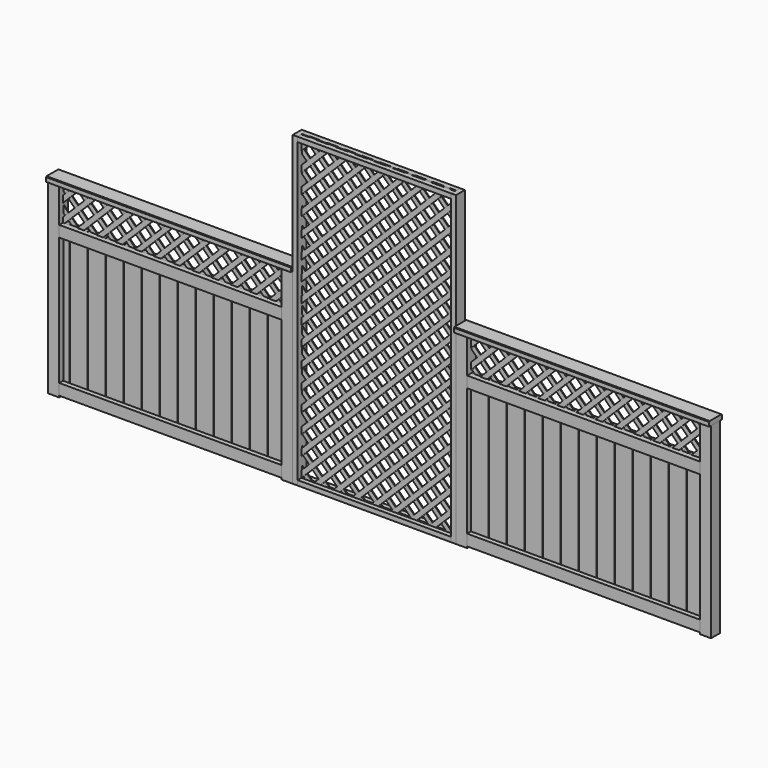
from build123d import *

# Parameters (mm, degrees)
F0_W       = 88.9
F0_H       = 88.9
F1_DEPTH   = 1485.9
F2_W       = 38.1
F2_H       = 88.9
F3_DEPTH   = 1765.3
F5_W       = 38.1
F5_H       = 88.9
F6_DEPTH   = 1847.85
F7_W       = 38.1
F7_H       = 2438.4
F8_DEPTH   = 88.9
F9_W       = 38.1
F9_H       = 2438.4
F10_DEPTH  = 88.9
F11_W      = 38.1
F11_H      = 38.1
F12_DEPTH  = 1219.2
F15_DEPTH  = 6.35
F17_DEPTH  = 6.35
F18_W      = 139.7
F18_H      = 1193.8
F19_DEPTH  = 15.875
F18_W_2    = 47.625
F20_W      = 139.7
F20_H      = 1193.8
F21_DEPTH  = 15.875
F20_W_2    = 130.175
F22_W      = 1847.85
F22_H      = 88.9
F23_DEPTH  = 15.875
F24_W      = 1765.3
F24_H      = 88.9
F25_DEPTH  = 15.875
F26_W      = 127
F26_H      = 38.1
F27_DEPTH  = 2025.65
F28_W      = 127
F28_H      = 38.1
F29_DEPTH  = 1943.1
F30_SIZE   = 5.08
F30_2_SIZE = 5.08


with BuildPart() as f1:
    # F0 (on Top) → F1 (new body)
    with BuildSketch(Plane.XY):
        with Locations((82.55, -44.45)):
            Rectangle(F0_W, F0_H)
    extrude(amount=F1_DEPTH)


with BuildPart() as f1b:
    # F0 (on Top) → F1, piece 2 (new body)
    with BuildSketch(Plane.XY):
        with Locations((1936.75, -44.45)):
            Rectangle(F0_W, F0_H)
    extrude(amount=F1_DEPTH)


with BuildPart() as f1c:
    # F0 (on Top) → F1, piece 3 (new body)
    with BuildSketch(Plane.XY):
        with Locations((3321.05, -44.45)):
            Rectangle(F0_W, F0_H)
    extrude(amount=F1_DEPTH)


with BuildPart() as f1d:
    # F0 (on Top) → F1, piece 4 (new body)
    with BuildSketch(Plane.XY):
        with Locations((5257.8, -44.45)):
            Rectangle(F0_W, F0_H)
    extrude(amount=F1_DEPTH)


with BuildPart() as f3:
    # F2 (on face) → F3 (new body)
    with BuildSketch(Plane.YZ.offset(127)):
        with Locations((-69.85, 1162.05)):
            Rectangle(F2_W, F2_H)
    extrude(amount=F3_DEPTH)


with BuildPart() as f4_1:
    # F4: copy of F3
    add(f3.part.moved(Location((0, 0, -1104.9))))


with BuildPart() as f6:
    # F5 (on face) → F6 (new body)
    with BuildSketch(Plane(origin=(5213.35, 0, 0), x_dir=(0, -1, 0), z_dir=(-1, 0, 0))):
        with Locations((69.85, 1162.05)):
            Rectangle(F5_W, F5_H)
    extrude(amount=F6_DEPTH)


with BuildPart() as f6b:
    # F5 (on face) → F6, piece 2 (new body)
    with BuildSketch(Plane(origin=(5213.35, 0, 0), x_dir=(0, -1, 0), z_dir=(-1, 0, 0))):
        with Locations((69.85, 57.15)):
            Rectangle(F5_W, F5_H)
    extrude(amount=F6_DEPTH)


with BuildPart() as f8:
    # F7 (on face) → F8 (new body)
    with BuildSketch(Plane.XZ.offset(88.9)):
        with Locations((2000.25, 1219.2)):
            Rectangle(F7_W, F7_H)
    extrude(amount=-F8_DEPTH)


with BuildPart() as f10:
    # F9 (on face) → F10 (new body)
    with BuildSketch(Plane.XZ.offset(88.9)):
        with Locations((3257.55, 1219.2)):
            Rectangle(F9_W, F9_H)
    extrude(amount=-F10_DEPTH)


with BuildPart() as f12:
    # F11 (on face) → F12 (new body)
    with BuildSketch(Plane.YZ.offset(2019.3)):
        with Locations((-69.85, 2419.35)):
            Rectangle(F11_W, F11_H)
    extrude(amount=F12_DEPTH)


with BuildPart() as f12b:
    # F11 (on face) → F12, piece 2 (new body)
    with BuildSketch(Plane.YZ.offset(2019.3)):
        with Locations((-19.05, 2419.35)):
            Rectangle(F11_W, F11_H)
    extrude(amount=F12_DEPTH)


with BuildPart() as f12c:
    # F11 (on face) → F12, piece 3 (new body)
    with BuildSketch(Plane.YZ.offset(2019.3)):
        with Locations((-69.85, 19.05)):
            Rectangle(F11_W, F11_H)
    extrude(amount=F12_DEPTH)


with BuildPart() as f12d:
    # F11 (on face) → F12, piece 4 (new body)
    with BuildSketch(Plane.YZ.offset(2019.3)):
        with Locations((-19.05, 19.05)):
            Rectangle(F11_W, F11_H)
    extrude(amount=F12_DEPTH)


with BuildPart() as f15:
    # F14 (on offset) → F15 (new body)
    with BuildSketch(Plane.XZ.offset(44.45)):
        Polygon((3148.0592316368, 0), (3201.9407683632, 0), (3238.5, 36.5592316368), (3238.5, 90.4407683632), align=None)
    extrude(amount=F15_DEPTH)


with BuildPart() as f15b:
    # F14 (on offset) → F15, piece 2 (new body)
    with BuildSketch(Plane.XZ.offset(44.45)):
        Polygon((4535.4407683632, 1485.9), (4481.5592316368, 1485.9), (4202.1592316368, 1206.5), (4256.0407683632, 1206.5), align=None)
    extrude(amount=F15_DEPTH)


with BuildPart() as f15c:
    # F14 (on offset) → F15, piece 3 (new body)
    with BuildSketch(Plane.XZ.offset(44.45)):
        Polygon((2995.6592316368, 0), (3049.5407683632, 0), (3238.5, 188.9592316368), (3238.5, 242.8407683632), align=None)
    extrude(amount=F15_DEPTH)


with BuildPart() as f15d:
    # F14 (on offset) → F15, piece 4 (new body)
    with BuildSketch(Plane.XZ.offset(44.45)):
        Polygon((4383.0407683632, 1485.9), (4329.1592316368, 1485.9), (4049.7592316368, 1206.5), (4103.6407683632, 1206.5), align=None)
    extrude(amount=F15_DEPTH)


with BuildPart() as f15e:
    # F14 (on offset) → F15, piece 5 (new body)
    with BuildSketch(Plane.XZ.offset(44.45)):
        Polygon((2843.2592316368, 0), (2897.1407683632, 0), (3238.5, 341.3592316368), (3238.5, 395.2407683632), align=None)
    extrude(amount=F15_DEPTH)


with BuildPart() as f15f:
    # F14 (on offset) → F15, piece 6 (new body)
    with BuildSketch(Plane.XZ.offset(44.45)):
        Polygon((4230.6407683632, 1485.9), (4176.7592316368, 1485.9), (3897.3592316368, 1206.5), (3951.2407683632, 1206.5), align=None)
    extrude(amount=F15_DEPTH)


with BuildPart() as f15g:
    # F14 (on offset) → F15, piece 7 (new body)
    with BuildSketch(Plane.XZ.offset(44.45)):
        Polygon((2690.8592316368, 0), (2744.7407683632, 0), (3238.5, 493.7592316368), (3238.5, 547.6407683632), align=None)
    extrude(amount=F15_DEPTH)


with BuildPart() as f15h:
    # F14 (on offset) → F15, piece 8 (new body)
    with BuildSketch(Plane.XZ.offset(44.45)):
        Polygon((4078.2407683632, 1485.9), (4024.3592316368, 1485.9), (3744.9592316368, 1206.5), (3798.8407683632, 1206.5), align=None)
    extrude(amount=F15_DEPTH)


with BuildPart() as f15i:
    # F14 (on offset) → F15, piece 9 (new body)
    with BuildSketch(Plane.XZ.offset(44.45)):
        Polygon((2538.4592316368, 0), (2592.3407683632, 0), (3238.5, 646.1592316368), (3238.5, 700.0407683632), align=None)
    extrude(amount=F15_DEPTH)


with BuildPart() as f15j:
    # F14 (on offset) → F15, piece 10 (new body)
    with BuildSketch(Plane.XZ.offset(44.45)):
        Polygon((3925.8407683632, 1485.9), (3871.9592316368, 1485.9), (3592.5592316368, 1206.5), (3646.4407683632, 1206.5), align=None)
    extrude(amount=F15_DEPTH)


with BuildPart() as f15k:
    # F14 (on offset) → F15, piece 11 (new body)
    with BuildSketch(Plane.XZ.offset(44.45)):
        Polygon((2386.0592316368, 0), (2439.9407683632, 0), (3238.5, 798.5592316368), (3238.5, 852.4407683632), align=None)
    extrude(amount=F15_DEPTH)


with BuildPart() as f15l:
    # F14 (on offset) → F15, piece 12 (new body)
    with BuildSketch(Plane.XZ.offset(44.45)):
        Polygon((3773.4407683632, 1485.9), (3719.5592316368, 1485.9), (3440.1592316368, 1206.5), (3494.0407683632, 1206.5), align=None)
    extrude(amount=F15_DEPTH)


with BuildPart() as f15m:
    # F14 (on offset) → F15, piece 13 (new body)
    with BuildSketch(Plane.XZ.offset(44.45)):
        Polygon((2233.6592316368, 0), (2287.5407683632, 0), (3238.5, 950.9592316368), (3238.5, 1004.8407683632), align=None)
    extrude(amount=F15_DEPTH)


with BuildPart() as f15n:
    # F14 (on offset) → F15, piece 14 (new body)
    with BuildSketch(Plane.XZ.offset(44.45)):
        Polygon((3621.0407683632, 1485.9), (3567.1592316368, 1485.9), (3365.5, 1284.2407683632), (3365.5, 1230.3592316368), align=None)
    extrude(amount=F15_DEPTH)


with BuildPart() as f15o:
    # F14 (on offset) → F15, piece 15 (new body)
    with BuildSketch(Plane.XZ.offset(44.45)):
        Polygon((2081.2592316368, 0), (2135.1407683632, 0), (3238.5, 1103.3592316368), (3238.5, 1157.2407683632), align=None)
    extrude(amount=F15_DEPTH)


with BuildPart() as f15p:
    # F14 (on offset) → F15, piece 16 (new body)
    with BuildSketch(Plane.XZ.offset(44.45)):
        Polygon((3468.6407683632, 1485.9), (3414.7592316368, 1485.9), (3365.5, 1436.6407683632), (3365.5, 1382.7592316368), align=None)
    extrude(amount=F15_DEPTH)


with BuildPart() as f15q:
    # F14 (on offset) → F15, piece 17 (new body)
    with BuildSketch(Plane.XZ.offset(44.45)):
        Polygon((2019.3, 90.4407683632), (2019.3, 36.5592316368), (3238.5, 1255.7592316368), (3238.5, 1309.6407683632), align=None)
    extrude(amount=F15_DEPTH)


with BuildPart() as f15r:
    # F14 (on offset) → F15, piece 18 (new body)
    with BuildSketch(Plane.XZ.offset(44.45)):
        Polygon((3238.5, 1408.1592316368), (3238.5, 1462.0407683632), (2019.3, 242.8407683632), (2019.3, 188.9592316368), align=None)
    extrude(amount=F15_DEPTH)


with BuildPart() as f15s:
    # F14 (on offset) → F15, piece 19 (new body)
    with BuildSketch(Plane.XZ.offset(44.45)):
        Polygon((3238.5, 1560.5592316368), (3238.5, 1614.4407683632), (2019.3, 395.2407683633), (2019.3, 341.3592316368), align=None)
    extrude(amount=F15_DEPTH)


with BuildPart() as f15t:
    # F14 (on offset) → F15, piece 20 (new body)
    with BuildSketch(Plane.XZ.offset(44.45)):
        Polygon((3238.5, 1712.9592316368), (3238.5, 1766.8407683632), (2019.3, 547.6407683633), (2019.3, 493.7592316368), align=None)
    extrude(amount=F15_DEPTH)


with BuildPart() as f15u:
    # F14 (on offset) → F15, piece 21 (new body)
    with BuildSketch(Plane.XZ.offset(44.45)):
        Polygon((3238.5, 1865.3592316368), (3238.5, 1919.2407683632), (2019.3, 700.0407683633), (2019.3, 646.1592316368), align=None)
    extrude(amount=F15_DEPTH)


with BuildPart() as f15v:
    # F14 (on offset) → F15, piece 22 (new body)
    with BuildSketch(Plane.XZ.offset(44.45)):
        Polygon((3238.5, 2017.7592316368), (3238.5, 2071.6407683632), (2019.3, 852.4407683632), (2019.3, 798.5592316368), align=None)
    extrude(amount=F15_DEPTH)


with BuildPart() as f15w:
    # F14 (on offset) → F15, piece 23 (new body)
    with BuildSketch(Plane.XZ.offset(44.45)):
        Polygon((3238.5, 2170.1592316368), (3238.5, 2224.0407683632), (2019.3, 1004.8407683632), (2019.3, 950.9592316368), align=None)
    extrude(amount=F15_DEPTH)


with BuildPart() as f15x:
    # F14 (on offset) → F15, piece 24 (new body)
    with BuildSketch(Plane.XZ.offset(44.45)):
        Polygon((3238.5, 2322.5592316368), (3238.5, 2376.4407683632), (2019.3, 1157.2407683632), (2019.3, 1103.3592316368), align=None)
    extrude(amount=F15_DEPTH)


with BuildPart() as f15y:
    # F14 (on offset) → F15, piece 25 (new body)
    with BuildSketch(Plane.XZ.offset(44.45)):
        Polygon((3201.9407683632, 2438.4), (3148.0592316368, 2438.4), (2019.3, 1309.6407683632), (2019.3, 1255.7592316368), align=None)
        Polygon((3201.9407683632, 2438.4), (3148.0592316368, 2438.4), (2019.3, 1309.6407683632), (2019.3, 1255.7592316368), align=None)
    extrude(amount=F15_DEPTH)


with BuildPart() as f15z:
    # F14 (on offset) → F15, piece 26 (new body)
    with BuildSketch(Plane.XZ.offset(44.45)):
        Polygon((3049.5407683632, 2438.4), (2995.6592316368, 2438.4), (2019.3, 1462.0407683632), (2019.3, 1408.1592316368), align=None)
    extrude(amount=F15_DEPTH)


with BuildPart() as f15ba:
    # F14 (on offset) → F15, piece 27 (new body)
    with BuildSketch(Plane.XZ.offset(44.45)):
        Polygon((1763.7592316368, 1206.5), (1817.6407683632, 1206.5), (1892.3, 1281.1592316368), (1892.3, 1335.0407683632), align=None)
    extrude(amount=F15_DEPTH)


with BuildPart() as f15bb:
    # F14 (on offset) → F15, piece 28 (new body)
    with BuildSketch(Plane.XZ.offset(44.45)):
        Polygon((2897.1407683632, 2438.4), (2843.2592316368, 2438.4), (2019.3, 1614.4407683632), (2019.3, 1560.5592316368), align=None)
    extrude(amount=F15_DEPTH)


with BuildPart() as f15bc:
    # F14 (on offset) → F15, piece 29 (new body)
    with BuildSketch(Plane.XZ.offset(44.45)):
        Polygon((1611.3592316368, 1206.5), (1665.2407683632, 1206.5), (1892.3, 1433.5592316368), (1892.3, 1485.9), (1890.7592316368, 1485.9), align=None)
    extrude(amount=F15_DEPTH)


with BuildPart() as f15bd:
    # F14 (on offset) → F15, piece 30 (new body)
    with BuildSketch(Plane.XZ.offset(44.45)):
        Polygon((2744.7407683632, 2438.4), (2690.8592316368, 2438.4), (2019.3, 1766.8407683632), (2019.3, 1712.9592316368), align=None)
    extrude(amount=F15_DEPTH)


with BuildPart() as f15be:
    # F14 (on offset) → F15, piece 31 (new body)
    with BuildSketch(Plane.XZ.offset(44.45)):
        Polygon((1458.9592316368, 1206.5), (1512.8407683632, 1206.5), (1792.2407683632, 1485.9), (1738.3592316368, 1485.9), align=None)
    extrude(amount=F15_DEPTH)


with BuildPart() as f15bf:
    # F14 (on offset) → F15, piece 32 (new body)
    with BuildSketch(Plane.XZ.offset(44.45)):
        Polygon((2592.3407683632, 2438.4), (2538.4592316368, 2438.4), (2019.3, 1919.2407683632), (2019.3, 1865.3592316368), align=None)
    extrude(amount=F15_DEPTH)


with BuildPart() as f15bg:
    # F14 (on offset) → F15, piece 33 (new body)
    with BuildSketch(Plane.XZ.offset(44.45)):
        Polygon((2439.9407683632, 2438.4), (2386.0592316368, 2438.4), (2019.3, 2071.6407683632), (2019.3, 2017.7592316368), align=None)
    extrude(amount=F15_DEPTH)


with BuildPart() as f15bh:
    # F14 (on offset) → F15, piece 34 (new body)
    with BuildSketch(Plane.XZ.offset(44.45)):
        Polygon((2287.5407683632, 2438.4), (2233.6592316368, 2438.4), (2019.3, 2224.0407683632), (2019.3, 2170.1592316368), align=None)
    extrude(amount=F15_DEPTH)


with BuildPart() as f15bi:
    # F14 (on offset) → F15, piece 35 (new body)
    with BuildSketch(Plane.XZ.offset(44.45)):
        Polygon((2135.1407683632, 2438.4), (2081.2592316368, 2438.4), (2019.3, 2376.4407683632), (2019.3, 2322.5592316368), align=None)
    extrude(amount=F15_DEPTH)


with BuildPart() as f15bj:
    # F14 (on offset) → F15, piece 36 (new body)
    with BuildSketch(Plane.XZ.offset(44.45)):
        Polygon((1306.5592316368, 1206.5), (1360.4407683632, 1206.5), (1639.8407683632, 1485.9), (1585.9592316368, 1485.9), align=None)
    extrude(amount=F15_DEPTH)


with BuildPart() as f15bk:
    # F14 (on offset) → F15, piece 37 (new body)
    with BuildSketch(Plane.XZ.offset(44.45)):
        Polygon((1154.1592316368, 1206.5), (1208.0407683632, 1206.5), (1487.4407683632, 1485.9), (1433.5592316368, 1485.9), align=None)
    extrude(amount=F15_DEPTH)


with BuildPart() as f15bl:
    # F14 (on offset) → F15, piece 38 (new body)
    with BuildSketch(Plane.XZ.offset(44.45)):
        Polygon((1001.7592316368, 1206.5), (1055.6407683632, 1206.5), (1335.0407683632, 1485.9), (1281.1592316368, 1485.9), align=None)
    extrude(amount=F15_DEPTH)


with BuildPart() as f15bm:
    # F14 (on offset) → F15, piece 39 (new body)
    with BuildSketch(Plane.XZ.offset(44.45)):
        Polygon((849.3592316368, 1206.5), (903.2407683632, 1206.5), (1182.6407683632, 1485.9), (1128.7592316368, 1485.9), align=None)
    extrude(amount=F15_DEPTH)


with BuildPart() as f15bn:
    # F14 (on offset) → F15, piece 40 (new body)
    with BuildSketch(Plane.XZ.offset(44.45)):
        Polygon((696.9592316368, 1206.5), (750.8407683632, 1206.5), (1030.2407683632, 1485.9), (976.3592316368, 1485.9), align=None)
    extrude(amount=F15_DEPTH)


with BuildPart() as f15bo:
    # F14 (on offset) → F15, piece 41 (new body)
    with BuildSketch(Plane.XZ.offset(44.45)):
        Polygon((544.5592316368, 1206.5), (598.4407683632, 1206.5), (877.8407683632, 1485.9), (823.9592316368, 1485.9), align=None)
    extrude(amount=F15_DEPTH)


with BuildPart() as f15bp:
    # F14 (on offset) → F15, piece 42 (new body)
    with BuildSketch(Plane.XZ.offset(44.45)):
        Polygon((392.1592316368, 1206.5), (446.0407683632, 1206.5), (725.4407683632, 1485.9), (671.5592316368, 1485.9), align=None)
    extrude(amount=F15_DEPTH)


with BuildPart() as f15bq:
    # F14 (on offset) → F15, piece 43 (new body)
    with BuildSketch(Plane.XZ.offset(44.45)):
        Polygon((239.7592316368, 1206.5), (293.6407683632, 1206.5), (573.0407683632, 1485.9), (519.1592316368, 1485.9), align=None)
    extrude(amount=F15_DEPTH)


with BuildPart() as f15br:
    # F14 (on offset) → F15, piece 44 (new body)
    with BuildSketch(Plane.XZ.offset(44.45)):
        Polygon((127, 1206.5), (141.2407683632, 1206.5), (420.6407683632, 1485.9), (366.7592316368, 1485.9), (127, 1246.1407683632), align=None)
    extrude(amount=F15_DEPTH)


with BuildPart() as f15bs:
    # F14 (on offset) → F15, piece 45 (new body)
    with BuildSketch(Plane.XZ.offset(44.45)):
        Polygon((127, 1398.5407683632), (127, 1344.6592316368), (268.2407683632, 1485.9), (214.3592316368, 1485.9), align=None)
    extrude(amount=F15_DEPTH)


with BuildPart() as f15bt:
    # F14 (on offset) → F15, piece 46 (new body)
    with BuildSketch(Plane.XZ.offset(44.45)):
        Polygon((4687.8407683632, 1485.9), (4633.9592316368, 1485.9), (4354.5592316368, 1206.5), (4408.4407683632, 1206.5), align=None)
    extrude(amount=F15_DEPTH)


with BuildPart() as f15bu:
    # F14 (on offset) → F15, piece 47 (new body)
    with BuildSketch(Plane.XZ.offset(44.45)):
        Polygon((4840.2407683632, 1485.9), (4786.3592316368, 1485.9), (4506.9592316368, 1206.5), (4560.8407683632, 1206.5), align=None)
    extrude(amount=F15_DEPTH)


with BuildPart() as f15bv:
    # F14 (on offset) → F15, piece 48 (new body)
    with BuildSketch(Plane.XZ.offset(44.45)):
        Polygon((4992.6407683632, 1485.9), (4938.7592316368, 1485.9), (4659.3592316368, 1206.5), (4713.2407683632, 1206.5), align=None)
    extrude(amount=F15_DEPTH)


with BuildPart() as f15bw:
    # F14 (on offset) → F15, piece 49 (new body)
    with BuildSketch(Plane.XZ.offset(44.45)):
        Polygon((5145.0407683632, 1485.9), (5091.1592316368, 1485.9), (4811.7592316368, 1206.5), (4865.6407683632, 1206.5), align=None)
    extrude(amount=F15_DEPTH)


with BuildPart() as f15bx:
    # F14 (on offset) → F15, piece 50 (new body)
    with BuildSketch(Plane.XZ.offset(44.45)):
        Polygon((5213.35, 1401.8092316368), (5213.35, 1455.6907683632), (4964.1592316368, 1206.5), (5018.0407683632, 1206.5), align=None)
    extrude(amount=F15_DEPTH)


with BuildPart() as f15by:
    # F14 (on offset) → F15, piece 51 (new body)
    with BuildSketch(Plane.XZ.offset(44.45)):
        Polygon((5213.35, 1249.4092316368), (5213.35, 1303.2907683632), (5116.5592316368, 1206.5), (5170.4407683632, 1206.5), align=None)
    extrude(amount=F15_DEPTH)


with BuildPart() as f17:
    # F16 (on offset) → F17 (new body)
    with BuildSketch(Plane.XZ.offset(44.45)):
        Polygon((2019.3, 117.3815367264), (2019.3, 63.5), (2082.8, 0), (2136.6815367264, 0), align=None)
    extrude(amount=-F17_DEPTH)


with BuildPart() as f17b:
    # F16 (on offset) → F17, piece 2 (new body)
    with BuildSketch(Plane.XZ.offset(44.45)):
        Polygon((2276.3815367264, 0), (2019.3, 257.0815367264), (2019.3, 203.2), (2222.5, 0), align=None)
    extrude(amount=-F17_DEPTH)


with BuildPart() as f17c:
    # F16 (on offset) → F17, piece 3 (new body)
    with BuildSketch(Plane.XZ.offset(44.45)):
        Polygon((2416.0815367264, 0), (2019.3, 396.7815367264), (2019.3, 342.9), (2362.2, 0), align=None)
    extrude(amount=-F17_DEPTH)


with BuildPart() as f17d:
    # F16 (on offset) → F17, piece 4 (new body)
    with BuildSketch(Plane.XZ.offset(44.45)):
        Polygon((2555.7815367264, 0), (2019.3, 536.4815367264), (2019.3, 482.6), (2501.9, 0), align=None)
    extrude(amount=-F17_DEPTH)


with BuildPart() as f17e:
    # F16 (on offset) → F17, piece 5 (new body)
    with BuildSketch(Plane.XZ.offset(44.45)):
        Polygon((2695.4815367264, 0), (2019.3, 676.1815367264), (2019.3, 622.3), (2641.6, 0), align=None)
    extrude(amount=-F17_DEPTH)


with BuildPart() as f17f:
    # F16 (on offset) → F17, piece 6 (new body)
    with BuildSketch(Plane.XZ.offset(44.45)):
        Polygon((2835.1815367264, 0), (2019.3, 815.8815367264), (2019.3, 762), (2781.3, 0), align=None)
    extrude(amount=-F17_DEPTH)


with BuildPart() as f17g:
    # F16 (on offset) → F17, piece 7 (new body)
    with BuildSketch(Plane.XZ.offset(44.45)):
        Polygon((2974.8815367264, 0), (2019.3, 955.5815367264), (2019.3, 901.7), (2921, 0), align=None)
    extrude(amount=-F17_DEPTH)


with BuildPart() as f17h:
    # F16 (on offset) → F17, piece 8 (new body)
    with BuildSketch(Plane.XZ.offset(44.45)):
        Polygon((1488.9815367264, 1485.9), (1435.1, 1485.9), (1714.5, 1206.5), (1768.3815367264, 1206.5), align=None)
    extrude(amount=-F17_DEPTH)


with BuildPart() as f17i:
    # F16 (on offset) → F17, piece 9 (new body)
    with BuildSketch(Plane.XZ.offset(44.45)):
        Polygon((1562.1, 1206.5), (1615.9815367264, 1206.5), (1336.5815367264, 1485.9), (1282.7, 1485.9), align=None)
    extrude(amount=-F17_DEPTH)


with BuildPart() as f17j:
    # F16 (on offset) → F17, piece 10 (new body)
    with BuildSketch(Plane.XZ.offset(44.45)):
        Polygon((3114.5815367264, 0), (2019.3, 1095.2815367264), (2019.3, 1041.4), (3060.7, 0), align=None)
    extrude(amount=-F17_DEPTH)


with BuildPart() as f17k:
    # F16 (on offset) → F17, piece 11 (new body)
    with BuildSketch(Plane.XZ.offset(44.45)):
        Polygon((1628.6815367264, 1485.9), (1574.8, 1485.9), (1854.2, 1206.5), (1892.3, 1206.5), (1892.3, 1222.2815367264), align=None)
    extrude(amount=-F17_DEPTH)


with BuildPart() as f17l:
    # F16 (on offset) → F17, piece 12 (new body)
    with BuildSketch(Plane.XZ.offset(44.45)):
        Polygon((3238.5, 15.7815367264), (2019.3, 1234.9815367264), (2019.3, 1181.1), (3200.4, 0), (3238.5, 0), align=None)
    extrude(amount=-F17_DEPTH)


with BuildPart() as f17m:
    # F16 (on offset) → F17, piece 13 (new body)
    with BuildSketch(Plane.XZ.offset(44.45)):
        Polygon((1768.3815367264, 1485.9), (1714.5, 1485.9), (1892.3, 1308.1), (1892.3, 1361.9815367264), align=None)
    extrude(amount=-F17_DEPTH)


with BuildPart() as f17n:
    # F16 (on offset) → F17, piece 14 (new body)
    with BuildSketch(Plane.XZ.offset(44.45)):
        Polygon((3238.5, 155.4815367264), (2019.3, 1374.6815367264), (2019.3, 1320.8), (3238.5, 101.6), align=None)
    extrude(amount=-F17_DEPTH)


with BuildPart() as f17o:
    # F16 (on offset) → F17, piece 15 (new body)
    with BuildSketch(Plane.XZ.offset(44.45)):
        Polygon((1892.3, 1485.9), (1854.2, 1485.9), (1892.3, 1447.8), align=None)
    extrude(amount=-F17_DEPTH)


with BuildPart() as f17p:
    # F16 (on offset) → F17, piece 16 (new body)
    with BuildSketch(Plane.XZ.offset(44.45)):
        Polygon((3238.5, 295.1815367264), (2019.3, 1514.3815367264), (2019.3, 1460.5), (3238.5, 241.3), align=None)
    extrude(amount=-F17_DEPTH)


with BuildPart() as f17q:
    # F16 (on offset) → F17, piece 17 (new body)
    with BuildSketch(Plane.XZ.offset(44.45)):
        Polygon((3238.5, 434.8815367264), (2019.3, 1654.0815367264), (2019.3, 1600.2), (3238.5, 381), align=None)
    extrude(amount=-F17_DEPTH)


with BuildPart() as f17r:
    # F16 (on offset) → F17, piece 18 (new body)
    with BuildSketch(Plane.XZ.offset(44.45)):
        Polygon((3238.5, 574.5815367264), (2019.3, 1793.7815367264), (2019.3, 1739.9), (3238.5, 520.7), align=None)
    extrude(amount=-F17_DEPTH)


with BuildPart() as f17s:
    # F16 (on offset) → F17, piece 19 (new body)
    with BuildSketch(Plane.XZ.offset(44.45)):
        Polygon((3238.5, 714.2815367264), (2019.3, 1933.4815367264), (2019.3, 1879.6), (3238.5, 660.4), align=None)
    extrude(amount=-F17_DEPTH)


with BuildPart() as f17t:
    # F16 (on offset) → F17, piece 20 (new body)
    with BuildSketch(Plane.XZ.offset(44.45)):
        Polygon((3238.5, 853.9815367263), (2019.3, 2073.1815367264), (2019.3, 2019.3), (3238.5, 800.1), align=None)
    extrude(amount=-F17_DEPTH)


with BuildPart() as f17u:
    # F16 (on offset) → F17, piece 21 (new body)
    with BuildSketch(Plane.XZ.offset(44.45)):
        Polygon((3238.5, 993.6815367263), (2019.3, 2212.8815367264), (2019.3, 2159), (3238.5, 939.8), align=None)
    extrude(amount=-F17_DEPTH)


with BuildPart() as f17v:
    # F16 (on offset) → F17, piece 22 (new body)
    with BuildSketch(Plane.XZ.offset(44.45)):
        Polygon((3238.5, 1133.3815367263), (2019.3, 2352.5815367264), (2019.3, 2298.7), (3238.5, 1079.5), align=None)
    extrude(amount=-F17_DEPTH)


with BuildPart() as f17w:
    # F16 (on offset) → F17, piece 23 (new body)
    with BuildSketch(Plane.XZ.offset(44.45)):
        Polygon((3238.5000000001, 1219.2), (3238.5000000001, 1273.0815367263), (2073.1815367264, 2438.4), (2019.3, 2438.4), align=None)
    extrude(amount=-F17_DEPTH)


with BuildPart() as f17x:
    # F16 (on offset) → F17, piece 24 (new body)
    with BuildSketch(Plane.XZ.offset(44.45)):
        Polygon((2212.8815367264, 2438.4), (2159, 2438.4), (3238.5000000001, 1358.8999999999), (3238.5000000001, 1412.7815367264), align=None)
    extrude(amount=-F17_DEPTH)


with BuildPart() as f17y:
    # F16 (on offset) → F17, piece 25 (new body)
    with BuildSketch(Plane.XZ.offset(44.45)):
        Polygon((2352.5815367264, 2438.4), (2298.7, 2438.4), (3238.5000000001, 1498.5999999999), (3238.5000000001, 1552.4815367264), align=None)
    extrude(amount=-F17_DEPTH)


with BuildPart() as f17z:
    # F16 (on offset) → F17, piece 26 (new body)
    with BuildSketch(Plane.XZ.offset(44.45)):
        Polygon((2492.2815367264, 2438.4), (2438.4, 2438.4), (3238.5000000001, 1638.2999999999), (3238.5000000001, 1692.1815367264), align=None)
    extrude(amount=-F17_DEPTH)


with BuildPart() as f17ba:
    # F16 (on offset) → F17, piece 27 (new body)
    with BuildSketch(Plane.XZ.offset(44.45)):
        Polygon((3238.5000000002, 1777.9999999999), (3238.5000000002, 1831.8815367263), (2631.9815367264, 2438.4), (2578.1, 2438.4), align=None)
    extrude(amount=-F17_DEPTH)


with BuildPart() as f17bb:
    # F16 (on offset) → F17, piece 28 (new body)
    with BuildSketch(Plane.XZ.offset(44.45)):
        Polygon((3238.5000000002, 1917.6999999998), (3238.5000000002, 1971.5815367262), (2771.6815367264, 2438.4), (2717.8, 2438.4), align=None)
    extrude(amount=-F17_DEPTH)


with BuildPart() as f17bc:
    # F16 (on offset) → F17, piece 29 (new body)
    with BuildSketch(Plane.XZ.offset(44.45)):
        Polygon((3238.5000000002, 2057.3999999998), (3238.5000000002, 2111.2815367262), (2911.3815367264, 2438.4), (2857.5, 2438.4), align=None)
    extrude(amount=-F17_DEPTH)


with BuildPart() as f17bd:
    # F16 (on offset) → F17, piece 30 (new body)
    with BuildSketch(Plane.XZ.offset(44.45)):
        Polygon((3238.5000000002, 2197.0999999998), (3238.5000000002, 2250.9815367262), (3051.0815367264, 2438.4), (2997.2, 2438.4), align=None)
    extrude(amount=-F17_DEPTH)


with BuildPart() as f17be:
    # F16 (on offset) → F17, piece 31 (new body)
    with BuildSketch(Plane.XZ.offset(44.45)):
        Polygon((3238.5000000002, 2336.7999999998), (3238.5000000002, 2390.6815367262), (3190.7815367264, 2438.4), (3136.9, 2438.4), align=None)
    extrude(amount=-F17_DEPTH)


with BuildPart() as f17bf:
    # F16 (on offset) → F17, piece 32 (new body)
    with BuildSketch(Plane.XZ.offset(44.45)):
        Polygon((3390.9, 1206.5), (3444.7815367265, 1206.5), (3365.5, 1285.7815367265), (3365.5, 1231.9), align=None)
    extrude(amount=-F17_DEPTH)


with BuildPart() as f17bg:
    # F16 (on offset) → F17, piece 33 (new body)
    with BuildSketch(Plane.XZ.offset(44.45)):
        Polygon((3530.6, 1206.5), (3584.4815367265, 1206.5), (3365.5, 1425.4815367265), (3365.5, 1371.6), align=None)
    extrude(amount=-F17_DEPTH)


with BuildPart() as f17bh:
    # F16 (on offset) → F17, piece 34 (new body)
    with BuildSketch(Plane.XZ.offset(44.45)):
        Polygon((3543.3, 1485.9), (3822.7, 1206.5), (3876.5815367266, 1206.5), (3597.1815367265, 1485.9), align=None)
    extrude(amount=-F17_DEPTH)


with BuildPart() as f17bi:
    # F16 (on offset) → F17, piece 35 (new body)
    with BuildSketch(Plane.XZ.offset(44.45)):
        Polygon((3390.9, 1485.9), (3670.3, 1206.5), (3724.1815367266, 1206.5), (3444.7815367265, 1485.9), align=None)
    extrude(amount=-F17_DEPTH)


with BuildPart() as f17bj:
    # F16 (on offset) → F17, piece 36 (new body)
    with BuildSketch(Plane.XZ.offset(44.45)):
        Polygon((5213.35, 1339.85), (5213.35, 1393.7315367265), (5121.1815367265, 1485.9), (5067.3, 1485.9), align=None)
    extrude(amount=-F17_DEPTH)


with BuildPart() as f17bk:
    # F16 (on offset) → F17, piece 37 (new body)
    with BuildSketch(Plane.XZ.offset(44.45)):
        Polygon((3975.1, 1206.5), (4028.9815367266, 1206.5), (3749.5815367265, 1485.9), (3695.7, 1485.9), align=None)
    extrude(amount=-F17_DEPTH)


with BuildPart() as f17bl:
    # F16 (on offset) → F17, piece 38 (new body)
    with BuildSketch(Plane.XZ.offset(44.45)):
        Polygon((4127.5, 1206.5), (4181.3815367266, 1206.5), (3901.9815367265, 1485.9), (3848.1, 1485.9), align=None)
    extrude(amount=-F17_DEPTH)


with BuildPart() as f17bm:
    # F16 (on offset) → F17, piece 39 (new body)
    with BuildSketch(Plane.XZ.offset(44.45)):
        Polygon((4279.9, 1206.5), (4333.7815367266, 1206.5), (4054.3815367265, 1485.9), (4000.5, 1485.9), align=None)
    extrude(amount=-F17_DEPTH)


with BuildPart() as f17bn:
    # F16 (on offset) → F17, piece 40 (new body)
    with BuildSketch(Plane.XZ.offset(44.45)):
        Polygon((4432.3, 1206.5), (4486.1815367266, 1206.5), (4206.7815367265, 1485.9), (4152.9, 1485.9), align=None)
    extrude(amount=-F17_DEPTH)


with BuildPart() as f17bo:
    # F16 (on offset) → F17, piece 41 (new body)
    with BuildSketch(Plane.XZ.offset(44.45)):
        Polygon((4305.3, 1485.9), (4584.7, 1206.5), (4638.5815367266, 1206.5), (4359.1815367265, 1485.9), align=None)
    extrude(amount=-F17_DEPTH)


with BuildPart() as f17bp:
    # F16 (on offset) → F17, piece 42 (new body)
    with BuildSketch(Plane.XZ.offset(44.45)):
        Polygon((4737.1, 1206.5), (4790.9815367266, 1206.5), (4511.5815367265, 1485.9), (4457.7, 1485.9), align=None)
    extrude(amount=-F17_DEPTH)


with BuildPart() as f17bq:
    # F16 (on offset) → F17, piece 43 (new body)
    with BuildSketch(Plane.XZ.offset(44.45)):
        Polygon((4889.5, 1206.5), (4943.3815367266, 1206.5), (4663.9815367265, 1485.9), (4610.1, 1485.9), align=None)
    extrude(amount=-F17_DEPTH)


with BuildPart() as f17br:
    # F16 (on offset) → F17, piece 44 (new body)
    with BuildSketch(Plane.XZ.offset(44.45)):
        Polygon((5041.9, 1206.5), (5095.7815367266, 1206.5), (4816.3815367265, 1485.9), (4762.5, 1485.9), align=None)
    extrude(amount=-F17_DEPTH)


with BuildPart() as f17bs:
    # F16 (on offset) → F17, piece 45 (new body)
    with BuildSketch(Plane.XZ.offset(44.45)):
        Polygon((5213.35, 1206.5), (5213.35, 1241.3315367266), (4968.7815367265, 1485.9), (4914.9, 1485.9), (5194.3, 1206.5), align=None)
    extrude(amount=-F17_DEPTH)


with BuildPart() as f17bt:
    # F16 (on offset) → F17, piece 46 (new body)
    with BuildSketch(Plane.XZ.offset(44.45)):
        Polygon((1409.7, 1206.5), (1463.5815367264, 1206.5), (1184.1815367264, 1485.9), (1130.3, 1485.9), align=None)
    extrude(amount=-F17_DEPTH)


with BuildPart() as f17bu:
    # F16 (on offset) → F17, piece 47 (new body)
    with BuildSketch(Plane.XZ.offset(44.45)):
        Polygon((1257.3, 1206.5), (1311.1815367264, 1206.5), (1031.7815367264, 1485.9), (977.9, 1485.9), align=None)
    extrude(amount=-F17_DEPTH)


with BuildPart() as f17bv:
    # F16 (on offset) → F17, piece 48 (new body)
    with BuildSketch(Plane.XZ.offset(44.45)):
        Polygon((1104.9, 1206.5), (1158.7815367264, 1206.5), (879.3815367264, 1485.9), (825.5, 1485.9), align=None)
    extrude(amount=-F17_DEPTH)


with BuildPart() as f17bw:
    # F16 (on offset) → F17, piece 49 (new body)
    with BuildSketch(Plane.XZ.offset(44.45)):
        Polygon((952.5, 1206.5), (1006.3815367264, 1206.5), (726.9815367264, 1485.9), (673.1, 1485.9), align=None)
    extrude(amount=-F17_DEPTH)


with BuildPart() as f17bx:
    # F16 (on offset) → F17, piece 50 (new body)
    with BuildSketch(Plane.XZ.offset(44.45)):
        Polygon((800.1, 1206.5), (853.9815367264, 1206.5), (574.5815367264, 1485.9), (520.7, 1485.9), align=None)
    extrude(amount=-F17_DEPTH)


with BuildPart() as f17by:
    # F16 (on offset) → F17, piece 51 (new body)
    with BuildSketch(Plane.XZ.offset(44.45)):
        Polygon((647.7, 1206.5), (701.5815367264, 1206.5), (422.1815367264, 1485.9), (368.3, 1485.9), align=None)
    extrude(amount=-F17_DEPTH)


with BuildPart() as f17bz:
    # F16 (on offset) → F17, piece 52 (new body)
    with BuildSketch(Plane.XZ.offset(44.45)):
        Polygon((495.3, 1206.5), (549.1815367264, 1206.5), (269.7815367264, 1485.9), (215.9, 1485.9), align=None)
    extrude(amount=-F17_DEPTH)


with BuildPart() as f17ca:
    # F16 (on offset) → F17, piece 53 (new body)
    with BuildSketch(Plane.XZ.offset(44.45)):
        Polygon((342.9, 1206.5), (396.7815367264, 1206.5), (127, 1476.2815367264), (127, 1422.4), align=None)
    extrude(amount=-F17_DEPTH)


with BuildPart() as f17cb:
    # F16 (on offset) → F17, piece 54 (new body)
    with BuildSketch(Plane.XZ.offset(44.45)):
        Polygon((190.5, 1206.5), (244.3815367264, 1206.5), (127, 1323.8815367264), (127, 1270), align=None)
    extrude(amount=-F17_DEPTH)


with BuildPart() as f19:
    # F18 (on face) → F19 (new body)
    with BuildSketch(Plane(origin=(0, -50.8, 0), x_dir=(-1, 0, 0), z_dir=(0, 1, 0))):
        with Locations((-1822.45, 609.6)):
            Rectangle(F18_W, F18_H)
    extrude(amount=F19_DEPTH)


with BuildPart() as f19b:
    # F18 (on face) → F19, piece 2 (new body)
    with BuildSketch(Plane(origin=(0, -50.8, 0), x_dir=(-1, 0, 0), z_dir=(0, 1, 0))):
        with Locations((-1679.575, 609.6)):
            Rectangle(F18_W, F18_H)
    extrude(amount=F19_DEPTH)


with BuildPart() as f19c:
    # F18 (on face) → F19, piece 3 (new body)
    with BuildSketch(Plane(origin=(0, -50.8, 0), x_dir=(-1, 0, 0), z_dir=(0, 1, 0))):
        with Locations((-1536.7, 609.6)):
            Rectangle(F18_W, F18_H)
    extrude(amount=F19_DEPTH)


with BuildPart() as f19d:
    # F18 (on face) → F19, piece 4 (new body)
    with BuildSketch(Plane(origin=(0, -50.8, 0), x_dir=(-1, 0, 0), z_dir=(0, 1, 0))):
        with Locations((-1393.825, 609.6)):
            Rectangle(F18_W, F18_H)
    extrude(amount=F19_DEPTH)


with BuildPart() as f19e:
    # F18 (on face) → F19, piece 5 (new body)
    with BuildSketch(Plane(origin=(0, -50.8, 0), x_dir=(-1, 0, 0), z_dir=(0, 1, 0))):
        with Locations((-1250.95, 609.6)):
            Rectangle(F18_W, F18_H)
    extrude(amount=F19_DEPTH)


with BuildPart() as f19f:
    # F18 (on face) → F19, piece 6 (new body)
    with BuildSketch(Plane(origin=(0, -50.8, 0), x_dir=(-1, 0, 0), z_dir=(0, 1, 0))):
        with Locations((-1108.075, 609.6)):
            Rectangle(F18_W, F18_H)
    extrude(amount=F19_DEPTH)


with BuildPart() as f19g:
    # F18 (on face) → F19, piece 7 (new body)
    with BuildSketch(Plane(origin=(0, -50.8, 0), x_dir=(-1, 0, 0), z_dir=(0, 1, 0))):
        with Locations((-965.2, 609.6)):
            Rectangle(F18_W, F18_H)
    extrude(amount=F19_DEPTH)


with BuildPart() as f19h:
    # F18 (on face) → F19, piece 8 (new body)
    with BuildSketch(Plane(origin=(0, -50.8, 0), x_dir=(-1, 0, 0), z_dir=(0, 1, 0))):
        with Locations((-822.325, 609.6)):
            Rectangle(F18_W, F18_H)
    extrude(amount=F19_DEPTH)


with BuildPart() as f19i:
    # F18 (on face) → F19, piece 9 (new body)
    with BuildSketch(Plane(origin=(0, -50.8, 0), x_dir=(-1, 0, 0), z_dir=(0, 1, 0))):
        with Locations((-679.45, 609.6)):
            Rectangle(F18_W, F18_H)
    extrude(amount=F19_DEPTH)


with BuildPart() as f19j:
    # F18 (on face) → F19, piece 10 (new body)
    with BuildSketch(Plane(origin=(0, -50.8, 0), x_dir=(-1, 0, 0), z_dir=(0, 1, 0))):
        with Locations((-536.575, 609.6)):
            Rectangle(F18_W, F18_H)
    extrude(amount=F19_DEPTH)


with BuildPart() as f19k:
    # F18 (on face) → F19, piece 11 (new body)
    with BuildSketch(Plane(origin=(0, -50.8, 0), x_dir=(-1, 0, 0), z_dir=(0, 1, 0))):
        with Locations((-393.7, 609.6)):
            Rectangle(F18_W, F18_H)
    extrude(amount=F19_DEPTH)


with BuildPart() as f19l:
    # F18 (on face) → F19, piece 12 (new body)
    with BuildSketch(Plane(origin=(0, -50.8, 0), x_dir=(-1, 0, 0), z_dir=(0, 1, 0))):
        with Locations((-250.825, 609.6)):
            Rectangle(F18_W, F18_H)
    extrude(amount=F19_DEPTH)


with BuildPart() as f19m:
    # F18 (on face) → F19, piece 13 (new body)
    with BuildSketch(Plane(origin=(0, -50.8, 0), x_dir=(-1, 0, 0), z_dir=(0, 1, 0))):
        with Locations((-153.9875, 609.6)):
            Rectangle(F18_W_2, F18_H)
    extrude(amount=F19_DEPTH)


with BuildPart() as f21:
    # F20 (on face) → F21 (new body)
    with BuildSketch(Plane(origin=(0, -50.8, 0), x_dir=(-1, 0, 0), z_dir=(0, 1, 0))):
        with Locations((-3435.35, 609.6)):
            Rectangle(F20_W, F20_H)
    extrude(amount=F21_DEPTH)


with BuildPart() as f21b:
    # F20 (on face) → F21, piece 2 (new body)
    with BuildSketch(Plane(origin=(0, -50.8, 0), x_dir=(-1, 0, 0), z_dir=(0, 1, 0))):
        with Locations((-3578.225, 609.6)):
            Rectangle(F20_W, F20_H)
    extrude(amount=F21_DEPTH)


with BuildPart() as f21c:
    # F20 (on face) → F21, piece 3 (new body)
    with BuildSketch(Plane(origin=(0, -50.8, 0), x_dir=(-1, 0, 0), z_dir=(0, 1, 0))):
        with Locations((-3721.1, 609.6)):
            Rectangle(F20_W, F20_H)
    extrude(amount=F21_DEPTH)


with BuildPart() as f21d:
    # F20 (on face) → F21, piece 4 (new body)
    with BuildSketch(Plane(origin=(0, -50.8, 0), x_dir=(-1, 0, 0), z_dir=(0, 1, 0))):
        with Locations((-3863.975, 609.6)):
            Rectangle(F20_W, F20_H)
    extrude(amount=F21_DEPTH)


with BuildPart() as f21e:
    # F20 (on face) → F21, piece 5 (new body)
    with BuildSketch(Plane(origin=(0, -50.8, 0), x_dir=(-1, 0, 0), z_dir=(0, 1, 0))):
        with Locations((-4006.85, 609.6)):
            Rectangle(F20_W, F20_H)
    extrude(amount=F21_DEPTH)


with BuildPart() as f21f:
    # F20 (on face) → F21, piece 6 (new body)
    with BuildSketch(Plane(origin=(0, -50.8, 0), x_dir=(-1, 0, 0), z_dir=(0, 1, 0))):
        with Locations((-4149.725, 609.6)):
            Rectangle(F20_W, F20_H)
    extrude(amount=F21_DEPTH)


with BuildPart() as f21g:
    # F20 (on face) → F21, piece 7 (new body)
    with BuildSketch(Plane(origin=(0, -50.8, 0), x_dir=(-1, 0, 0), z_dir=(0, 1, 0))):
        with Locations((-4292.6, 609.6)):
            Rectangle(F20_W, F20_H)
    extrude(amount=F21_DEPTH)


with BuildPart() as f21h:
    # F20 (on face) → F21, piece 8 (new body)
    with BuildSketch(Plane(origin=(0, -50.8, 0), x_dir=(-1, 0, 0), z_dir=(0, 1, 0))):
        with Locations((-4435.475, 609.6)):
            Rectangle(F20_W, F20_H)
    extrude(amount=F21_DEPTH)


with BuildPart() as f21i:
    # F20 (on face) → F21, piece 9 (new body)
    with BuildSketch(Plane(origin=(0, -50.8, 0), x_dir=(-1, 0, 0), z_dir=(0, 1, 0))):
        with Locations((-4578.35, 609.6)):
            Rectangle(F20_W, F20_H)
    extrude(amount=F21_DEPTH)


with BuildPart() as f21j:
    # F20 (on face) → F21, piece 10 (new body)
    with BuildSketch(Plane(origin=(0, -50.8, 0), x_dir=(-1, 0, 0), z_dir=(0, 1, 0))):
        with Locations((-4721.225, 609.6)):
            Rectangle(F20_W, F20_H)
    extrude(amount=F21_DEPTH)


with BuildPart() as f21k:
    # F20 (on face) → F21, piece 11 (new body)
    with BuildSketch(Plane(origin=(0, -50.8, 0), x_dir=(-1, 0, 0), z_dir=(0, 1, 0))):
        with Locations((-4864.1, 609.6)):
            Rectangle(F20_W, F20_H)
    extrude(amount=F21_DEPTH)


with BuildPart() as f21l:
    # F20 (on face) → F21, piece 12 (new body)
    with BuildSketch(Plane(origin=(0, -50.8, 0), x_dir=(-1, 0, 0), z_dir=(0, 1, 0))):
        with Locations((-5006.975, 609.6)):
            Rectangle(F20_W, F20_H)
    extrude(amount=F21_DEPTH)


with BuildPart() as f21m:
    # F20 (on face) → F21, piece 13 (new body)
    with BuildSketch(Plane(origin=(0, -50.8, 0), x_dir=(-1, 0, 0), z_dir=(0, 1, 0))):
        with Locations((-5145.0875, 609.6)):
            Rectangle(F20_W_2, F20_H)
    extrude(amount=F21_DEPTH)


with BuildPart() as f23:
    # F22 (on face) → F23 (new body)
    with BuildSketch(Plane(origin=(0, -34.925, 0), x_dir=(-1, 0, 0), z_dir=(0, 1, 0))):
        with Locations((-4289.425, 1162.05)):
            Rectangle(F22_W, F22_H)
    extrude(amount=F23_DEPTH)


with BuildPart() as f23b:
    # F22 (on face) → F23, piece 2 (new body)
    with BuildSketch(Plane(origin=(0, -34.925, 0), x_dir=(-1, 0, 0), z_dir=(0, 1, 0))):
        with Locations((-4289.425, 57.15)):
            Rectangle(F22_W, F22_H)
    extrude(amount=F23_DEPTH)


with BuildPart() as f25:
    # F24 (on face) → F25 (new body)
    with BuildSketch(Plane(origin=(0, -34.925, 0), x_dir=(-1, 0, 0), z_dir=(0, 1, 0))):
        with Locations((-1009.65, 1162.05)):
            Rectangle(F24_W, F24_H)
    extrude(amount=F25_DEPTH)


with BuildPart() as f25b:
    # F24 (on face) → F25, piece 2 (new body)
    with BuildSketch(Plane(origin=(0, -34.925, 0), x_dir=(-1, 0, 0), z_dir=(0, 1, 0))):
        with Locations((-1009.65, 57.15)):
            Rectangle(F24_W, F24_H)
    extrude(amount=F25_DEPTH)


with BuildPart() as f27:
    # F26 (on face) → F27 (new body, through all)
    with BuildSketch(Plane.YZ.offset(5302.25)):
        with Locations((-44.45, 1504.95)):
            Rectangle(F26_W, F26_H)
    extrude(amount=-F27_DEPTH)

    # F30
    f30_edges = [f27.edges().sort_by_distance(p)[0] for p in [
        (4289.425, 19.05, 1524),
        (4289.425, -107.95, 1524),
    ]]
    chamfer(f30_edges, length=F30_SIZE)


with BuildPart() as f29:
    # F28 (on face) → F29 (new body, through all)
    with BuildSketch(Plane(origin=(38.1, 0, 0), x_dir=(0, -1, 0), z_dir=(-1, 0, 0))):
        with Locations((44.45, 1504.95)):
            Rectangle(F28_W, F28_H)
    extrude(amount=-F29_DEPTH)

    # F30#2
    f30_2_edges = [f29.edges().sort_by_distance(p)[0] for p in [
        (1009.65, 19.05, 1524),
        (1009.65, -107.95, 1524),
    ]]
    chamfer(f30_2_edges, length=F30_2_SIZE)


solid = Compound([f1.part, f1b.part, f1c.part, f1d.part, f3.part, f4_1.part, f6.part, f6b.part, f8.part, f10.part, f12.part, f12b.part, f12c.part, f12d.part, f15.part, f15b.part, f15c.part, f15d.part, f15e.part, f15f.part, f15g.part, f15h.part, f15i.part, f15j.part, f15k.part, f15l.part, f15m.part, f15n.part, f15o.part, f15p.part, f15q.part, f15r.part, f15s.part, f15t.part, f15u.part, f15v.part, f15w.part, f15x.part, f15y.part, f15z.part, f15ba.part, f15bb.part, f15bc.part, f15bd.part, f15be.part, f15bf.part, f15bg.part, f15bh.part, f15bi.part, f15bj.part, f15bk.part, f15bl.part, f15bm.part, f15bn.part, f15bo.part, f15bp.part, f15bq.part, f15br.part, f15bs.part, f15bt.part, f15bu.part, f15bv.part, f15bw.part, f15bx.part, f15by.part, f17.part, f17b.part, f17c.part, f17d.part, f17e.part, f17f.part, f17g.part, f17h.part, f17i.part, f17j.part, f17k.part, f17l.part, f17m.part, f17n.part, f17o.part, f17p.part, f17q.part, f17r.part, f17s.part, f17t.part, f17u.part, f17v.part, f17w.part, f17x.part, f17y.part, f17z.part, f17ba.part, f17bb.part, f17bc.part, f17bd.part, f17be.part, f17bf.part, f17bg.part, f17bh.part, f17bi.part, f17bj.part, f17bk.part, f17bl.part, f17bm.part, f17bn.part, f17bo.part, f17bp.part, f17bq.part, f17br.part, f17bs.part, f17bt.part, f17bu.part, f17bv.part, f17bw.part, f17bx.part, f17by.part, f17bz.part, f17ca.part, f17cb.part, f19.part, f19b.part, f19c.part, f19d.part, f19e.part, f19f.part, f19g.part, f19h.part, f19i.part, f19j.part, f19k.part, f19l.part, f19m.part, f21.part, f21b.part, f21c.part, f21d.part, f21e.part, f21f.part, f21g.part, f21h.part, f21i.part, f21j.part, f21k.part, f21l.part, f21m.part, f23.part, f23b.part, f25.part, f25b.part, f27.part, f29.part])
